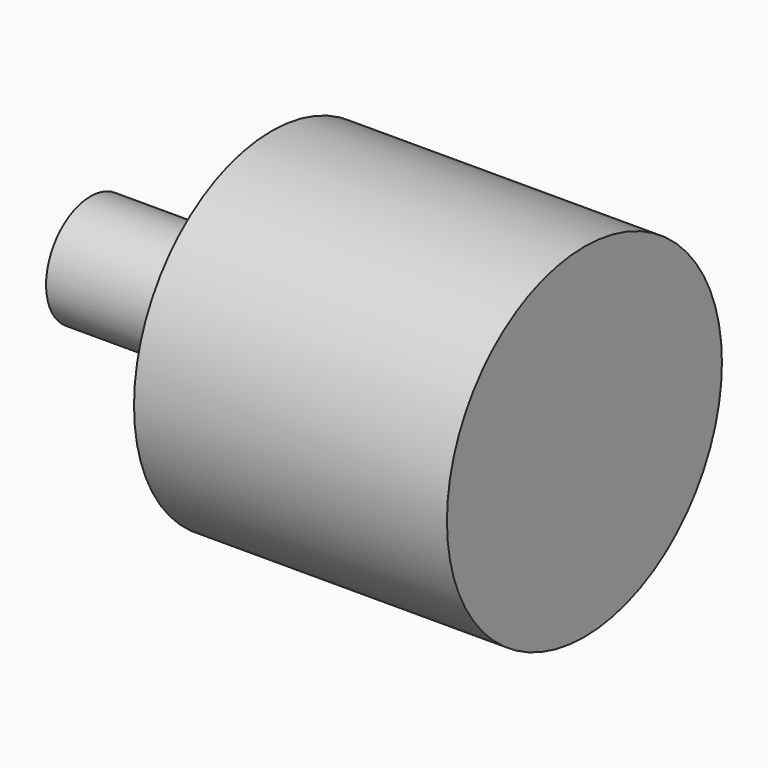
from build123d import *

# Parameters (mm, degrees)
F0_W = 14.7
F0_H = 4.5


with BuildPart() as f1:
    # F0 (on Front) → F1 (revolve)
    with BuildSketch(Plane.XZ):
        Polygon((0, 13.95), (-25.4, 13.95), (-25.4, 4.5), (-25.4, 0), (0, 0), align=None)
        with Locations((-32.75, 2.25)):
            Rectangle(F0_W, F0_H)
    revolve(axis=Axis((-20.05, 0, 0), (-1, 0, 0)))


solid = f1.part
